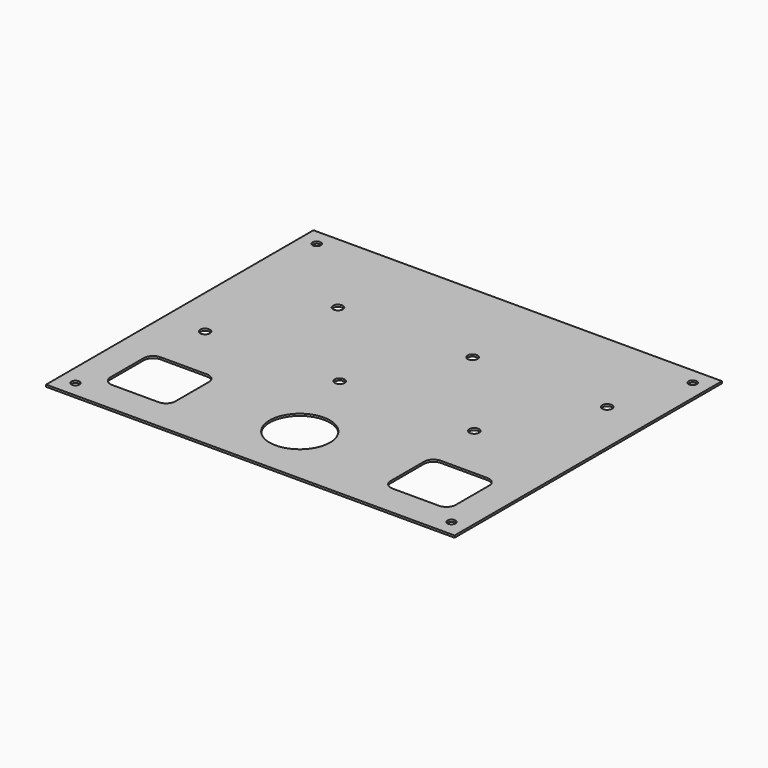
from build123d import *

# Parameters (mm, degrees)
F0_W     = 558.8
F0_H     = 457.2
F0_R     = 5.588
F0_R_2   = 6.74624
F0_R_3   = 41.275
F1_DEPTH = 2.778125


with BuildPart() as f1:
    # F0 (on Top) → F1 (new body)
    with BuildSketch(Plane.XY):
        with Locations((279.4, 228.6)):
            Rectangle(F0_W, F0_H)
        with Locations((22.352, 22.352)):
            Circle(F0_R, mode=Mode.SUBTRACT)
        with BuildLine():
            ThreePointArc((43.18, 113.157), (46.899744, 122.137256), (55.88, 125.857))
            Line((55.88, 125.857), (119.38, 125.857))
            ThreePointArc((119.38, 125.857), (128.360256, 122.137256), (132.08, 113.157))
            Line((132.08, 113.157), (132.08, 56.007))
            ThreePointArc((132.08, 56.007), (128.360256, 47.026744), (119.38, 43.307))
            Line((119.38, 43.307), (55.88, 43.307))
            ThreePointArc((55.88, 43.307), (46.899744, 47.026744), (43.18, 56.007))
            Line((43.18, 56.007), (43.18, 113.157))
        make_face(mode=Mode.SUBTRACT)
        with Locations((55.88, 202.057)):
            Circle(F0_R_2, mode=Mode.SUBTRACT)
        with Locations((240.03, 202.057)):
            Circle(F0_R_2, mode=Mode.SUBTRACT)
        with Locations((279.4, 84.582)):
            Circle(F0_R_3, mode=Mode.SUBTRACT)
        with Locations((536.702, 22.352)):
            Circle(F0_R, mode=Mode.SUBTRACT)
        with BuildLine():
            Line((439.42, 125.857), (502.92, 125.857))
            ThreePointArc((502.92, 125.857), (511.900256, 122.137256), (515.62, 113.157))
            Line((515.62, 113.157), (515.62, 56.007))
            ThreePointArc((515.62, 56.007), (511.900256, 47.026744), (502.92, 43.307))
            Line((502.92, 43.307), (439.42, 43.307))
            ThreePointArc((439.42, 43.307), (430.439744, 47.026744), (426.72, 56.007))
            Line((426.72, 56.007), (426.72, 113.157))
            ThreePointArc((426.72, 113.157), (430.439744, 122.137256), (439.42, 125.857))
        make_face(mode=Mode.SUBTRACT)
        with Locations((424.18, 202.057)):
            Circle(F0_R_2, mode=Mode.SUBTRACT)
        with Locations((132.08, 334.039272)):
            Circle(F0_R_2, mode=Mode.SUBTRACT)
        with Locations((22.352, 434.848)):
            Circle(F0_R, mode=Mode.SUBTRACT)
        with Locations((316.23, 334.039272)):
            Circle(F0_R_2, mode=Mode.SUBTRACT)
        with Locations((500.38, 334.039272)):
            Circle(F0_R_2, mode=Mode.SUBTRACT)
        with Locations((536.702, 434.848)):
            Circle(F0_R, mode=Mode.SUBTRACT)
    extrude(amount=F1_DEPTH)


solid = f1.part
